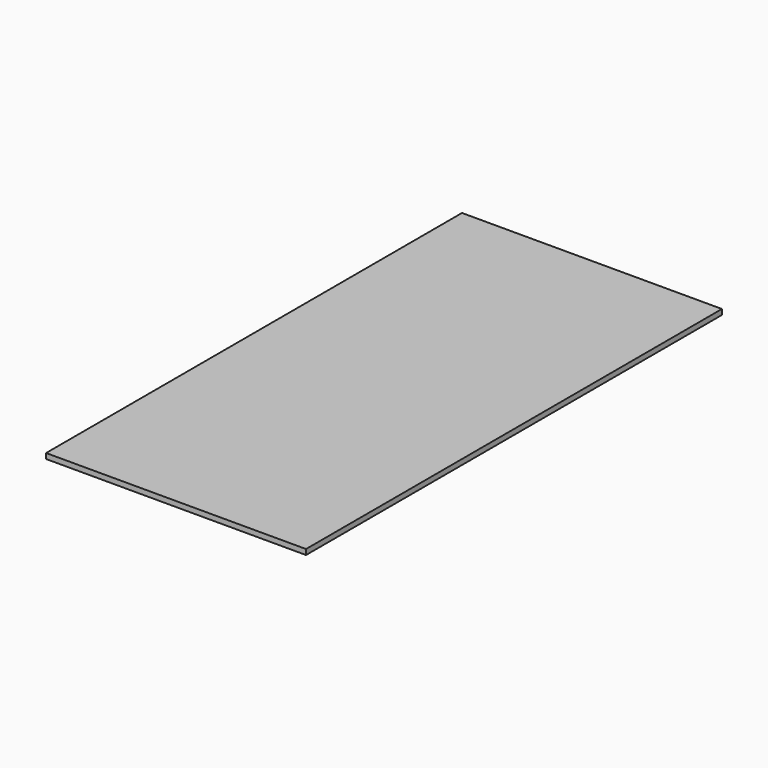
from build123d import *

# Parameters (mm, degrees)
F0_W     = 98
F0_H     = 196
F1_DEPTH = 2
F2_R     = 8
F3_DEPTH = 1.6


with BuildPart() as f1:
    # F0 (on Top) → F1 (new body)
    with BuildSketch(Plane.XY):
        Rectangle(F0_W, F0_H)
    extrude(amount=F1_DEPTH)

    # F2 (on face) → F3 (join)
    with BuildSketch(Plane(origin=(0, 0, 0), x_dir=(1, 0, 0), z_dir=(0, 0, -1))):
        with Locations((37, -42.2)):
            Circle(F2_R)
        with Locations((37, -0.6)):
            Circle(F2_R)
        with Locations((37, 41)):
            Circle(F2_R)
        with Locations((13, -42.2)):
            Circle(F2_R)
        with Locations((13, -0.6)):
            Circle(F2_R)
        with Locations((13, 41)):
            Circle(F2_R)
        with Locations((-11, -42.2)):
            Circle(F2_R)
        with Locations((-11, -0.6)):
            Circle(F2_R)
        with Locations((-11, 41)):
            Circle(F2_R)
        with Locations((-35, -42.2)):
            Circle(F2_R)
        with Locations((-35, -0.6)):
            Circle(F2_R)
        with Locations((-35, 41)):
            Circle(F2_R)
        with Locations((-25, -63.4)):
            Circle(F2_R)
        with Locations((-25, -21.8)):
            Circle(F2_R)
        with Locations((-25, 19.8)):
            Circle(F2_R)
        with Locations((0, -63.4)):
            Circle(F2_R)
        with Locations((0, -21.8)):
            Circle(F2_R)
        with Locations((0, 19.8)):
            Circle(F2_R)
        with Locations((25, -63.4)):
            Circle(F2_R)
        with Locations((25, -21.8)):
            Circle(F2_R)
        with Locations((25, 19.8)):
            Circle(F2_R)
        with Locations((-25, 61.4)):
            Circle(F2_R)
        with Locations((0, 61.4)):
            Circle(F2_R)
        with Locations((25, 61.4)):
            Circle(F2_R)
    extrude(amount=F3_DEPTH)


solid = f1.part
